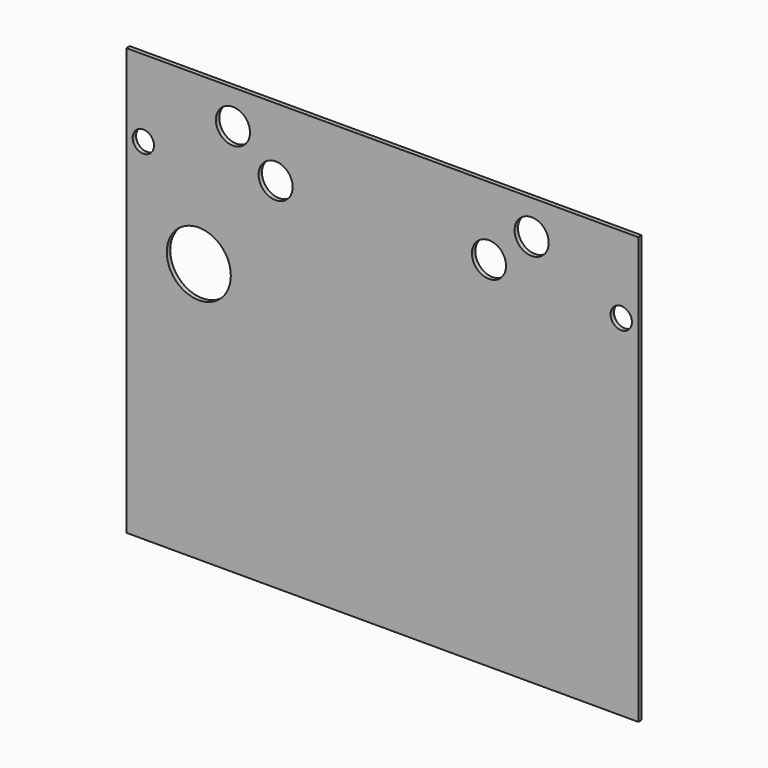
from build123d import *

# Parameters (mm, degrees)
F0_W     = 600
F0_H     = 500
F0_R     = 20
F1_DEPTH = 5


with BuildPart() as f1:
    # F0 (on Front) → F1 (new body)
    with BuildSketch(Plane.XZ):
        with Locations((-242.767021, 269.897342)):
            Rectangle(F0_W, F0_H)
        with BuildLine():
            ThreePointArc((-420.267021, 324.897342), (-484.681646, 298.785027), (-456.632513, 362.380176))
            ThreePointArc((-456.632513, 362.380176), (-430.852396, 351.009656), (-420.267021, 324.897342))
        make_face(mode=Mode.SUBTRACT)
        with BuildLine():
            ThreePointArc((-522.604695, 417.398396), (-531.663062, 438.678598), (-510.267021, 429.897342))
            ThreePointArc((-510.267021, 429.897342), (-513.870981, 421.116085), (-522.604695, 417.398396))
        make_face(mode=Mode.SUBTRACT)
        with Locations((-417.767021, 479.897342)):
            Circle(F0_R, mode=Mode.SUBTRACT)
        with Locations((-367.767021, 439.897342)):
            Circle(F0_R, mode=Mode.SUBTRACT)
        with Locations((-117.767021, 439.897342)):
            Circle(F0_R, mode=Mode.SUBTRACT)
        with BuildLine():
            ThreePointArc((49.732979, 429.897342), (46.014235, 421.001301), (37.070653, 417.398396))
            ThreePointArc((37.070653, 417.398396), (28.451723, 438.793382), (49.732979, 429.897342))
        make_face(mode=Mode.SUBTRACT)
        with Locations((-67.767021, 479.897342)):
            Circle(F0_R, mode=Mode.SUBTRACT)
    extrude(amount=F1_DEPTH)


solid = f1.part
